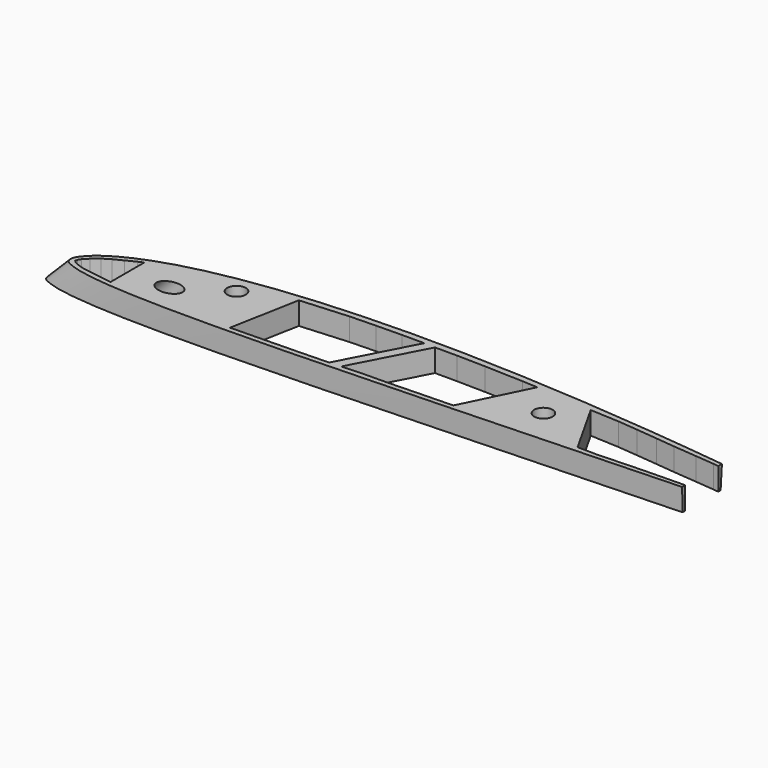
from build123d import *

# Parameters (mm, degrees)
SKETCH005_R     = 4.1
POCKET001_DEPTH = 1000
SKETCH022_W     = 945.272247
SKETCH022_H     = 187.602043
POCKET008_DEPTH = 100
SKETCH023_W     = 1032.115818
SKETCH023_H     = 242.591309
POCKET009_DEPTH = 490
SKETCH062_R     = 4.1
POCKET037_DEPTH = 15
SKETCH069_W     = 134.705139
SKETCH069_H     = 33.848118
POCKET043_DEPTH = 15
SKETCH181_R     = 4.1
POCKET121_DEPTH = 15


with BuildPart() as body001:
    # Sketch004 → AdditiveLoft001 section 0
    with BuildSketch(Plane.XY):
        with BuildLine():
            add(Edge.make_bspline(
                [(442, 0), (441.516482, 0.05985), (439.608661, 0.304392), (435.397729, 0.910974), (428.574856, 2.050787), (419.357172, 3.70148), (407.988015, 5.842425), (394.698211, 8.361511), (379.693029, 11.119858), (363.162801, 13.997331), (345.26298, 16.850624), (326.154422, 19.592319), (306.024603, 22.224467), (285.087437, 24.693135), (263.574681, 26.954707), (241.720258, 28.956147), (219.751231, 30.630726), (197.897907, 31.93252), (176.376671, 32.821617), (155.396014, 33.244603), (135.15065, 33.188213), (115.824376, 32.629564), (97.587476, 31.56887), (80.596225, 30.005784), (64.993081, 27.968424), (50.899514, 25.480303), (38.413049, 22.576942), (27.612464, 19.308312), (18.537399, 15.757674), (11.25959, 12.025676), (5.681209, 8.285847), (2.085717, 4.609671), (-0.247471, 1.339778), (0.311945, -2.351632), (4.312806, -4.086549), (9.630029, -5.736613), (17.536136, -6.998137), (27.548729, -7.995899), (39.778624, -8.638792), (54.057759, -8.977652), (70.277468, -9.020418), (88.270446, -8.806011), (107.851364, -8.369968), (128.803322, -7.757266), (150.891088, -7.009708), (173.8572, -6.171241), (197.434439, -5.258382), (221.347851, -4.314599), (245.320032, -3.359505), (269.074332, -2.428661), (292.331841, -1.542801), (314.820615, -0.740997), (336.263952, -0.054134), (356.390635, 0.471415), (374.915352, 0.819632), (391.616087, 0.995955), (406.124271, 0.998543), (418.5896, 0.838399), (427.79948, 0.669458), (436.147044, 0.281922), (438.208582, 0.287723), (442.482043, -0.059667), (442, 0)],
                knots=[0, 0, 0, 0, 1.461597, 5.77029, 12.762078, 22.212664, 33.86298, 47.468775, 62.792045, 79.632371, 97.804006, 117.167199, 137.543181, 158.706049, 180.412086, 202.435333, 224.541436, 246.507528, 268.108303, 289.156025, 309.457208, 328.838587, 347.151752, 364.251375, 380.016791, 394.345039, 407.169539, 418.451022, 428.175556, 436.348274, 442.987025, 448.138084, 451.892769, 454.490135, 458.080843, 463.78995, 471.700688, 481.805752, 494.068802, 508.3943, 524.664455, 542.72125, 562.377151, 583.420645, 605.603797, 628.678224, 652.364831, 676.388479, 700.474308, 724.338439, 747.706026, 770.297556, 791.846969, 812.070775, 830.691007, 847.452489, 862.104791, 874.428615, 884.234973, 891.369529, 895.711178, 897.168317, 897.168317, 897.168317, 897.168317], degree=3))
        make_face()
    # Sketch003 → AdditiveLoft001 section 1
    with BuildSketch(Plane(origin=(600, 0, -600), x_dir=(1, 0, 0), z_dir=(0, 0, 1))):
        with BuildLine():
            add(Edge.make_bspline(
                [(221, 0), (220.758241, 0.029925), (219.804331, 0.152196), (217.698864, 0.455487), (214.287428, 1.025393), (209.678586, 1.85074), (203.994008, 2.921212), (197.349106, 4.180756), (189.846514, 5.559929), (181.5814, 6.998665), (172.63149, 8.425312), (163.077211, 9.796159), (153.012301, 11.112233), (142.543719, 12.346568), (131.78734, 13.477353), (120.860129, 14.478073), (109.875616, 15.315363), (98.948954, 15.96626), (88.188336, 16.410808), (77.698007, 16.622301), (67.575325, 16.594107), (57.912188, 16.314782), (48.793738, 15.784435), (40.298113, 15.002892), (32.49654, 13.984212), (25.449757, 12.740151), (19.206525, 11.288471), (13.806232, 9.654156), (9.2687, 7.878837), (5.629795, 6.012838), (2.840604, 4.142924), (1.042858, 2.304836), (-0.123736, 0.669889), (0.155972, -1.175816), (2.156403, -2.043274), (4.815015, -2.868307), (8.768068, -3.499068), (13.774365, -3.997949), (19.889312, -4.319396), (27.028879, -4.488826), (35.138734, -4.510209), (44.135223, -4.403006), (53.925682, -4.184984), (64.401661, -3.878633), (75.445544, -3.504854), (86.9286, -3.08562), (98.71722, -2.629191), (110.673925, -2.157299), (122.660016, -1.679753), (134.537166, -1.21433), (146.165921, -0.771401), (157.410308, -0.370498), (168.131976, -0.027067), (178.195317, 0.235708), (187.457676, 0.409816), (195.808043, 0.497978), (203.062136, 0.499271), (209.2948, 0.4192), (213.89974, 0.334729), (218.073522, 0.140961), (219.104291, 0.143861), (221.241022, -0.029834), (221, 0)],
                knots=[0, 0, 0, 0, 0.730799, 2.885145, 6.381039, 11.106332, 16.93149, 23.734387, 31.396023, 39.816186, 48.902003, 58.583599, 68.77159, 79.353025, 90.206043, 101.217667, 112.270718, 123.253764, 134.054152, 144.578012, 154.728604, 164.419294, 173.575876, 182.125688, 190.008395, 197.172519, 203.58477, 209.225511, 214.087778, 218.174137, 221.493513, 224.069042, 225.946384, 227.245067, 229.040421, 231.894975, 235.850344, 240.902876, 247.034401, 254.19715, 262.332227, 271.360625, 281.188575, 291.710323, 302.801898, 314.339112, 326.182416, 338.19424, 350.237154, 362.16922, 373.853013, 385.148778, 395.923484, 406.035388, 415.345504, 423.726244, 431.052396, 437.214307, 442.117487, 445.684765, 447.855589, 448.584159, 448.584159, 448.584159, 448.584159], degree=3))
        make_face()
    loft()

    # Sketch005 (on DatumPlane) → Pocket001 (cut)
    with BuildSketch(Plane(origin=(0, 0, 0), x_dir=(0.707107, 0, 0.707107), z_dir=(-0.707107, 0, 0.707107))):
        with Locations((28.334262, 4.752984)):
            Circle(SKETCH005_R)
    extrude(amount=-POCKET001_DEPTH, mode=Mode.SUBTRACT)

    # Sketch022 (on Face1 of Pocket001) → Pocket008 (cut)
    with BuildSketch(Plane.XY):
        with Locations((398.32396, 24.800571)):
            Rectangle(SKETCH022_W, SKETCH022_H)
    extrude(amount=-POCKET008_DEPTH, mode=Mode.SUBTRACT)

    # Sketch023 (on Face3 of Pocket008) → Pocket009 (cut)
    with BuildSketch(Plane(origin=(0, 0, -600), x_dir=(1, 0, 0), z_dir=(0, 0, -1))):
        with Locations((543.011183, 43.390365)):
            Rectangle(SKETCH023_W, SKETCH023_H)
    extrude(amount=-POCKET009_DEPTH, mode=Mode.SUBTRACT)

    # Sketch062 (on Face2 of Pocket009) → Pocket037 (cut)
    with BuildSketch(Plane(origin=(0, 0, -110), x_dir=(1, 0, 0), z_dir=(0, 0, -1))):
        with Locations((170, -17)):
            Circle(SKETCH062_R)
        Polygon((131.615433, -13.856302), (131.615433, 4.749034), (126.762009, 4.050773), (121.39846, 3.23596), (117.608994, 2.65394), (114.460693, 1.605384), (112.828148, 0.731336), (112.128372, 0), (112.303047, -0.95915), (113.118874, -2.300192), (115.158745, -4.399402), (118.07299, -6.848619), (121.395416, -8.889856), (125.242546, -10.814631), (129.381119, -12.914368), align=None)
        Polygon((456.728149, -6.978049), (456.728149, -2.773762), (444.472656, -2.773762), (430.721405, -2.532512), (419.575684, -2.291264), (405.247559, -1.998539), (391.49759, -1.51681), (401.723175, -15.753007), (417.216003, -13.540045), (432.076996, -10.934546), (447.999481, -8.473799), align=None)
        Polygon((397.241701, -16.814685), (385.617041, -0.630676), (375.298279, -0.398599), (363.461273, -0.159949), (353.628937, 0.221889), (343.414764, 0.603728), (335.140915, 0.494975), (321.314255, -24.062452), (334.103271, -23.43784), (343.031006, -22.609682), (352.429993, -21.684027), (360.745117, -20.814463), (371.413544, -19.881708), (379.750031, -19.123842), (388.727814, -18.016197), align=None)
        Polygon((282.043775, 2.908251), (296.202589, -25.88573), (289.375427, -26.189796), (272.288177, -26.81028), (259.745087, -27.037893), (249.901355, -27.04927), (233.501347, 4.365564), (243.094421, 3.929071), (253.594986, 3.785881), (265.05014, 3.40404), (275.168854, 3.11766), align=None)
        Polygon((245.031035, -27.221813), (228.388046, 4.65846), (221.996856, 4.848562), (215.787369, 5.040299), (208.529495, 5.183408), (201.134323, 5.37441), (185.282798, 5.704844), (191.070462, -25.194708), (212.219315, -26.720217), (223.865387, -27.054329), (235.231171, -27.233147), align=None)
    extrude(amount=-POCKET037_DEPTH, mode=Mode.SUBTRACT)

    # Sketch069 (on Face2 of Pocket037) → Pocket043 (cut)
    with BuildSketch(Plane(origin=(0, 0, -110), x_dir=(1, 0, 0), z_dir=(0, 0, -1))):
        with Locations((449.35257, -7.399801)):
            Rectangle(SKETCH069_W, SKETCH069_H)
    extrude(amount=-POCKET043_DEPTH, mode=Mode.SUBTRACT)

    # Sketch181 (on Face2 of Pocket043) → Pocket121 (cut)
    with BuildSketch(Plane.XY.offset(-100)):
        with Locations((310, 12)):
            Circle(SKETCH181_R)
    extrude(amount=-POCKET121_DEPTH, mode=Mode.SUBTRACT)


with BuildPart() as body001_1:
    # Body001 placement: moved
    add(body001.part.moved(Location((0, 0, -100))))


with BuildPart() as part_mirroring001:
    # Part__Mirroring001: instance of Body001
    add(body001_1.part.mirror(Plane(origin=(0, 0, 0), x_dir=(0, 1, 0), z_dir=(0, 0, 1))))


solid = part_mirroring001.part
